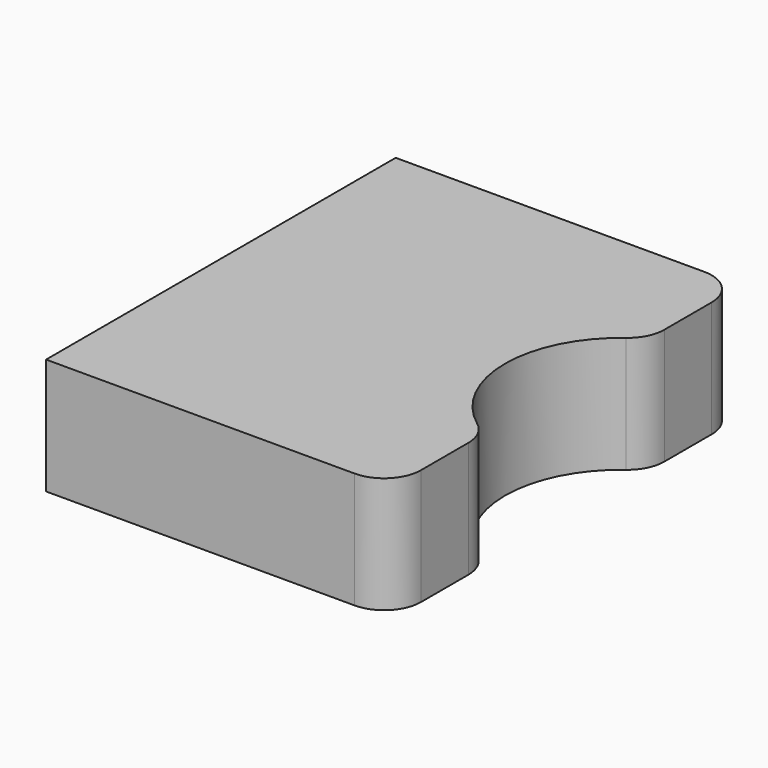
from build123d import *

# Parameters (mm, degrees)
F1_DEPTH = 20


with BuildPart() as f1:
    # F0 (on Top) → F1 (new body)
    with BuildSketch(Plane.XY):
        with BuildLine():
            Line((-27.945659, 40.376538), (-27.945659, -34.885674))
            Line((-27.945659, -34.885674), (25.200764, -34.885674))
            ThreePointArc((25.200764, -34.885674), (29.690892, -33.025802), (31.550764, -28.535674))
            Line((31.550764, -28.535674), (31.550764, -18.348344))
            ThreePointArc((31.550764, -18.348344), (30.879138, -15.506062), (29.006334, -13.265024))
            ThreePointArc((29.006334, -13.265024), (20.99238, 2.745432), (29.006334, 18.755888))
            ThreePointArc((29.006334, 18.755888), (30.879138, 20.996926), (31.550764, 23.839208))
            Line((31.550764, 23.839208), (31.550764, 34.026538))
            ThreePointArc((31.550764, 34.026538), (29.690892, 38.516666), (25.200764, 40.376538))
            Line((25.200764, 40.376538), (-27.945659, 40.376538))
        make_face()
        with BuildLine():
            Line((-27.945659, 40.376538), (-27.945659, -34.885674))
            Line((-27.945659, -34.885674), (25.200764, -34.885674))
            ThreePointArc((25.200764, -34.885674), (29.690892, -33.025802), (31.550764, -28.535674))
            Line((31.550764, -28.535674), (31.550764, -18.348344))
            ThreePointArc((31.550764, -18.348344), (30.879138, -15.506062), (29.006334, -13.265024))
            ThreePointArc((29.006334, -13.265024), (20.99238, 2.745432), (29.006334, 18.755888))
            ThreePointArc((29.006334, 18.755888), (30.879138, 20.996926), (31.550764, 23.839208))
            Line((31.550764, 23.839208), (31.550764, 34.026538))
            ThreePointArc((31.550764, 34.026538), (29.690892, 38.516666), (25.200764, 40.376538))
            Line((25.200764, 40.376538), (-27.945659, 40.376538))
        make_face()
    extrude(amount=F1_DEPTH)


solid = f1.part
